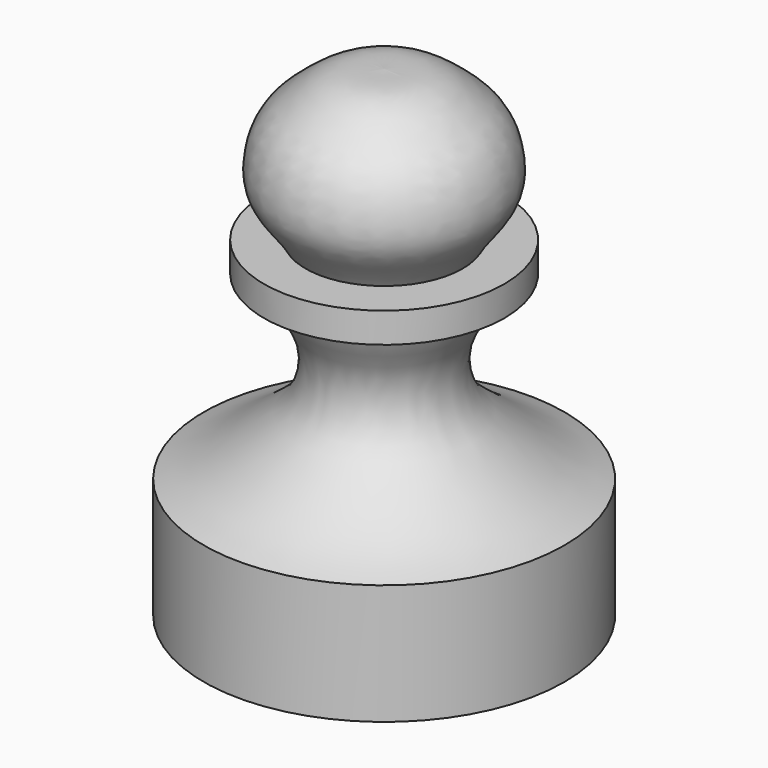
from build123d import *


with BuildPart() as f1:
    # F0 (on Front) → F1 (revolve)
    with BuildSketch(Plane.XZ):
        Polygon((0, 34.925), (0, 31.75), (9.525, 31.75), (12.7, 31.75), (12.7, 34.925), (8.2938163461, 34.925), align=None)
        with BuildLine():
            Line((0, 50.8), (0, 34.925))
            Line((0, 34.925), (8.2938163461, 34.925))
            add(Edge.make_bspline(
                [(8.2938163461, 34.925), (8.8119155958, 35.9296320353), (10.3377018861, 37.6445575669), (11.8497804306, 40.251445047), (11.4775968675, 43.983221376), (10.0574266195, 46.7037851398), (7.7383380098, 48.5934290358), (5.9489654676, 49.9634460717), (3.4584093672, 50.868512047), (1.1692841349, 50.6999896772), (0, 50.8)],
                knots=[0, 0, 0, 0, 0.1331073225, 0.2566905305, 0.3928132468, 0.5191817197, 0.6423867268, 0.7502366215, 0.865279277, 1, 1, 1, 1], degree=3))
        make_face()
        with BuildLine():
            Line((0, 31.75), (0, 0))
            Line((0, 0), (19.05, 0))
            Line((19.05, 0), (19.05, 12.7))
            add(Edge.make_bspline(
                [(19.05, 12.7), (15.6508699467, 13.689246051), (10.4916904552, 17.7065910039), (7.3409641587, 20.4386906172), (6.3373062495, 26.3121345815), (10.1150269054, 30.4028265886), (9.525, 31.75)],
                knots=[0, 0, 0, 0, 0.3180499089, 0.5206308145, 0.7551272901, 1, 1, 1, 1], degree=3))
            Line((9.525, 31.75), (0, 31.75))
        make_face()
    revolve(axis=Axis((0, 0, 25.4), (0, 0, 1)))


solid = f1.part
